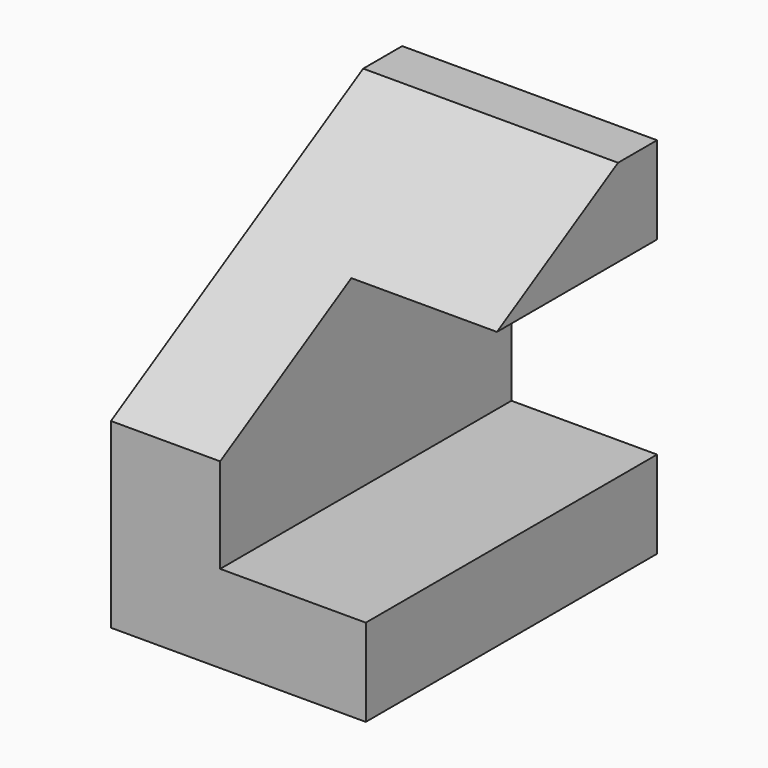
from build123d import *

# Parameters (mm, degrees)
BOX_W           = 35
BOX_H           = 50
BOX_DEPTH       = 50
POCKET_DEPTH    = 35.001
SKETCH001_W     = 63.276014
SKETCH001_H     = 26
POCKET001_DEPTH = 20


with BuildPart() as part:
    # Box → Box (new body)
    with BuildSketch(Plane.XY):
        with Locations((17.5, 25)):
            Rectangle(BOX_W, BOX_H)
    extrude(amount=BOX_DEPTH)

    # Sketch → Pocket (cut, through all)
    with BuildSketch(Plane.YZ.offset(35)):
        Polygon((0, 25), (48.387446, 52.936505), (0, 52.936505), align=None)
    extrude(amount=-POCKET_DEPTH, mode=Mode.SUBTRACT)

    # Sketch001 → Pocket001 (cut)
    with BuildSketch(Plane.YZ.offset(35)):
        with Locations((26.710172, 25)):
            Rectangle(SKETCH001_W, SKETCH001_H)
    extrude(amount=-POCKET001_DEPTH, mode=Mode.SUBTRACT)


solid = part.part
